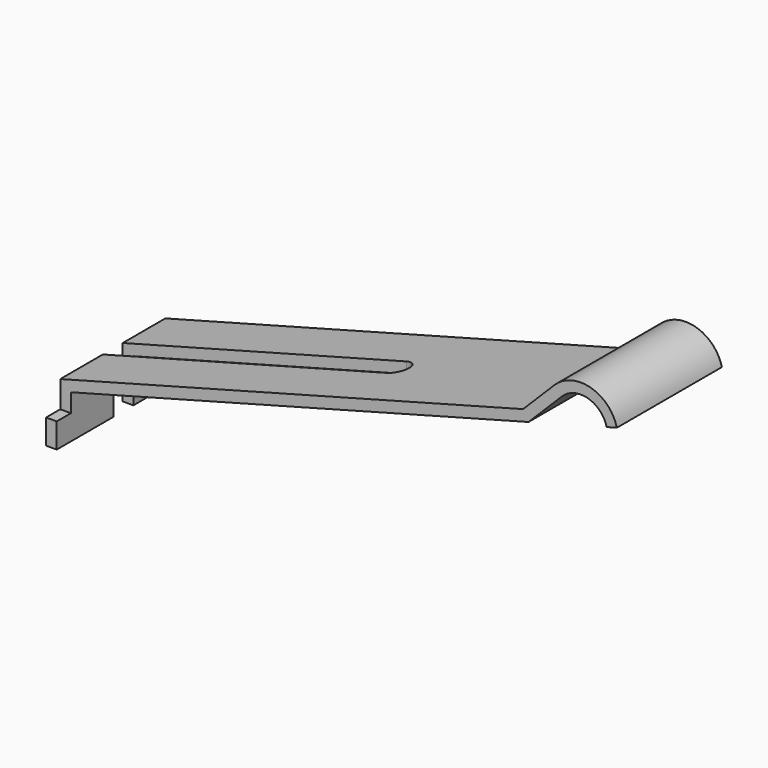
from build123d import *

# Parameters (mm, degrees)
PAD025_DEPTH    = 1.85
POCKET012_DEPTH = 6.136478
SKETCH033_W     = 0.3
SKETCH033_H     = 0.7
PAD026_DEPTH    = 0.5
SKETCH034_W     = 0.3
SKETCH034_H     = 0.7
PAD027_DEPTH    = 0.5


with BuildPart() as part:
    # Sketch031 → Pad025 (new body, symmetric)
    with BuildSketch(Plane.XZ):
        with BuildLine():
            Line((-5.3, 5.3), (-5.3, 3.85))
            Line((-5.3, 3.85), (-5, 3.85))
            Line((-5, 3.85), (-5, 5.069802))
            Line((-5, 5.069802), (7.89529, 8.525084))
            Line((8.836014, 9.465809), (7.89529, 8.525084))
            ThreePointArc((10.094687, 9.114411), (9.568018, 9.657855), (8.836014, 9.465809))
            Line((10.094687, 9.114411), (10.38451, 9.192069))
            ThreePointArc((10.38451, 9.192069), (9.645667, 9.947644), (8.623882, 9.677941))
            Line((8.623882, 9.677941), (7.739999, 8.794057))
            Line((-5.3, 5.3), (7.739999, 8.794057))
        make_face()
    extrude(amount=PAD025_DEPTH, both=True)

    # Sketch032 (on Face6 of Pad025) → Pocket012 (cut, through all)
    with BuildSketch(Plane(origin=(0, 0, 3.85), x_dir=(1, 0, 0), z_dir=(0, 0, -1))):
        with BuildLine():
            ThreePointArc((-5.3, 0.35), (-5.65, 0), (-5.3, -0.35))
            Line((-5.3, -0.35), (2.7, -0.35))
            ThreePointArc((2.7, -0.35), (3.05, 0), (2.7, 0.35))
            Line((2.7, 0.35), (-5.3, 0.35))
        make_face()
    extrude(amount=-POCKET012_DEPTH, mode=Mode.SUBTRACT)

    # Sketch033 (on Face5 of Pocket012) → Pad026 (join)
    with BuildSketch(Plane.XZ.offset(1.85)):
        with Locations((-5.15, 4.2)):
            Rectangle(SKETCH033_W, SKETCH033_H)
    extrude(amount=PAD026_DEPTH)

    # Sketch034 (on Face4 of Pad026) → Pad027 (join)
    with BuildSketch(Plane(origin=(0, 1.85, 0), x_dir=(1, 0, 0), z_dir=(0, 1, 0))):
        with Locations((-5.15, -4.2)):
            Rectangle(SKETCH034_W, SKETCH034_H)
    extrude(amount=PAD027_DEPTH)


solid = part.part
